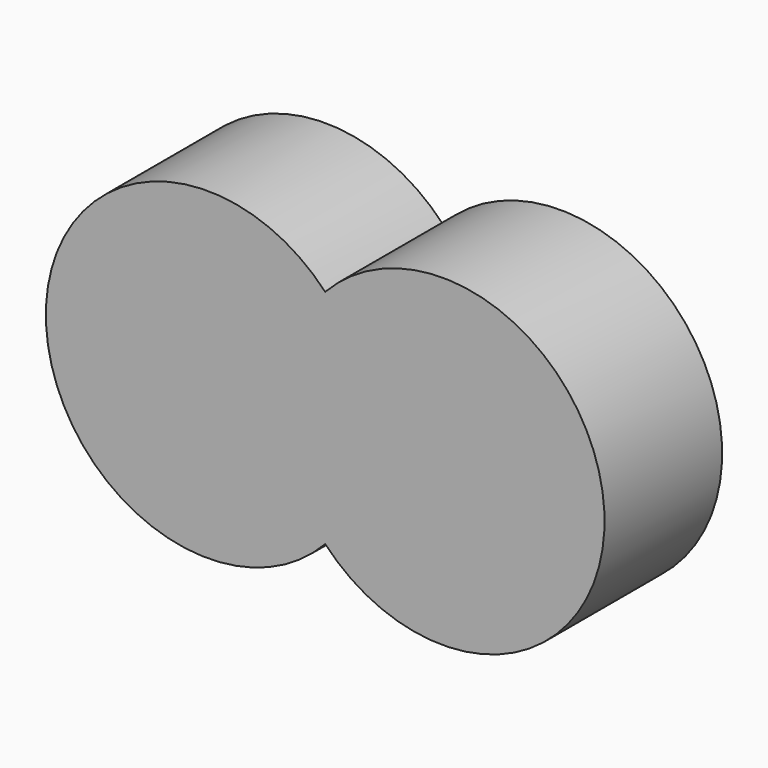
from build123d import *

# Parameters (mm, degrees)
F1_DEPTH = 25


with BuildPart() as f1:
    # F0 (on Front) → F1 (new body)
    with BuildSketch(Plane.XZ):
        with BuildLine():
            ThreePointArc((0, -18.874586), (47.5, 0), (0, 18.874586))
            ThreePointArc((0, 18.874586), (-47.5, 0), (0, -18.874586))
        make_face()
    extrude(amount=-F1_DEPTH)


solid = f1.part
